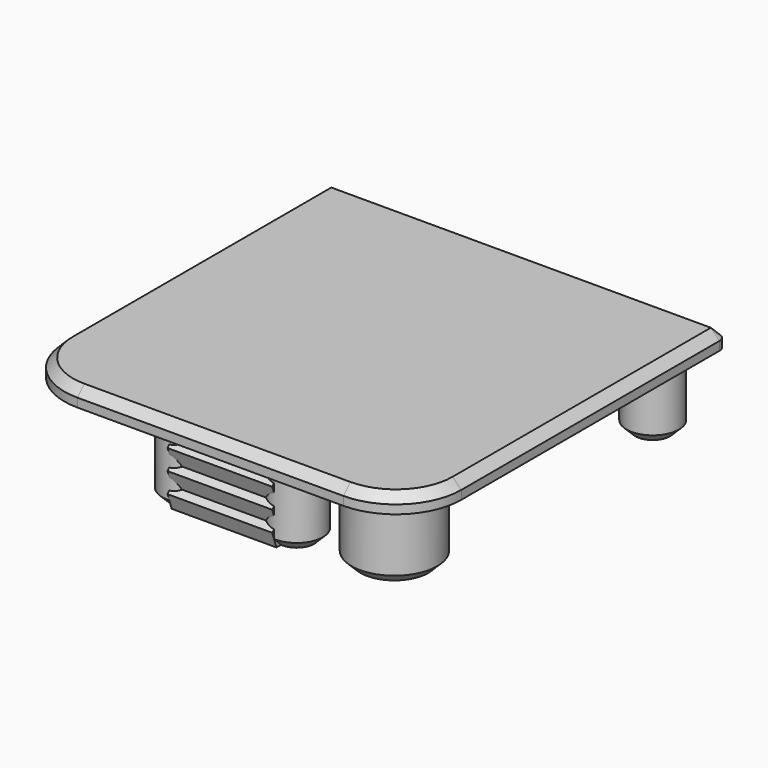
from build123d import *

# Parameters (mm, degrees)
PAD001_DEPTH    = 2
SKETCH002_R     = 3
SKETCH002_R_2   = 4.9
PAD002_DEPTH    = 8
CHAMFER_SIZE    = 1
CHAMFER001_SIZE = 1
PAD003_DEPTH    = 9
PAD004_DEPTH    = 6
PAD005_DEPTH    = 8.5


with BuildPart() as part:
    # Sketch001 → Pad001 (new body)
    with BuildSketch(Plane.XY):
        with BuildLine():
            Line((-21.73, 22.75), (21.73, 22.75))
            ThreePointArc((22.75, 21.73), (22.451249, 22.451249), (21.73, 22.75))
            Line((22.75, 21.73), (22.75, -15.25))
            ThreePointArc((15.25, -22.75), (20.553301, -20.553301), (22.75, -15.25))
            Line((15.25, -22.75), (-15.25, -22.75))
            ThreePointArc((-22.75, -15.25), (-20.553301, -20.553301), (-15.25, -22.75))
            Line((-22.75, -15.25), (-22.75, 21.73))
            ThreePointArc((-21.73, 22.75), (-22.451249, 22.451249), (-22.75, 21.73))
        make_face()
    extrude(amount=PAD001_DEPTH)

    # Sketch002 → Pad002 (join)
    with BuildSketch(Plane.XY):
        with Locations((-18.05, 18.05)):
            Circle(SKETCH002_R)
        with Locations((18.05, 18.05)):
            Circle(SKETCH002_R)
        with Locations((6.2, -18.15)):
            Circle(SKETCH002_R)
        with Locations((-6.2, -18.15)):
            Circle(SKETCH002_R)
        with Locations((15.8, -16.15)):
            Circle(SKETCH002_R_2)
    extrude(amount=-PAD002_DEPTH)

    # Chamfer
    chamfer_edges = [part.edges().sort_by_distance(p)[0] for p in [
        (15.05, 18.05, -8),
        (-21.05, 18.05, -8),
        (-9.2, -18.15, -8),
        (3.2, -18.15, -8),
        (10.9, -16.15, -8),
    ]]
    chamfer(chamfer_edges, length=CHAMFER_SIZE)

    # Chamfer001
    chamfer001_edges = [part.edges().sort_by_distance(p)[0] for p in [
        (0, -22.75, 2),
    ]]
    chamfer(chamfer001_edges, length=CHAMFER001_SIZE)

    # Sketch003 → Pad003 (join, symmetric)
    with BuildSketch(Plane.XZ.offset(-3)):
        with BuildLine():
            ThreePointArc((-20.8, -0.965685), (-20.677375, -0.349207), (-21.2, 0))
            Line((-21.2, 0), (-15.2, 0))
            ThreePointArc((-15.2, 0), (-16.381381, -0.386204), (-17.106508, -1.395661))
            Line((-19.2, -8), (-17.106508, -1.395661))
            Line((-20.8, -8), (-19.2, -8))
            Line((-21.4, -6.255228), (-20.8, -8))
            Line((-20.8, -5.655228), (-21.4, -6.255228))
            Line((-21.4, -3.910457), (-20.8, -5.655228))
            Line((-20.8, -3.310457), (-21.4, -3.910457))
            Line((-21.4, -1.565685), (-20.8, -3.310457))
            Line((-20.8, -0.965685), (-21.4, -1.565685))
        make_face()
        with BuildLine():
            Line((3, 0), (9, 0))
            ThreePointArc((9, 0), (8.477375, -0.349207), (8.6, -0.965685))
            Line((8.6, -0.965685), (9.2, -1.565685))
            Line((9.2, -1.565685), (8.6, -3.310457))
            Line((8.6, -3.310457), (9.2, -3.910457))
            Line((9.2, -3.910457), (8.6, -5.655228))
            Line((8.6, -5.655228), (9.2, -6.255228))
            Line((9.2, -6.255228), (8.6, -8))
            Line((8.6, -8), (7, -8))
            Line((7, -8), (4.906508, -1.395661))
            ThreePointArc((4.906508, -1.395661), (4.181381, -0.386204), (3, 0))
        make_face()
    extrude(amount=PAD003_DEPTH, both=True)

    # Sketch004 → Pad004 (join, symmetric)
    with BuildSketch(Plane.YZ):
        with BuildLine():
            ThreePointArc((-20.8, -1.023773), (-20.665406, -0.381157), (-21.2, 0))
            Line((-21.2, 0), (-15.2, 0))
            ThreePointArc((-15.2, 0), (-16.381381, -0.386204), (-17.106508, -1.395661))
            Line((-19.2, -8), (-17.106508, -1.395661))
            Line((-20.8, -8), (-19.2, -8))
            Line((-21.4, -6.274591), (-20.8, -8))
            Line((-20.8, -5.674591), (-21.4, -6.274591))
            Line((-21.4, -3.949182), (-20.8, -5.674591))
            Line((-20.8, -3.349182), (-21.4, -3.949182))
            Line((-21.4, -1.623773), (-20.8, -3.349182))
            Line((-20.8, -1.023773), (-21.4, -1.623773))
        make_face()
    extrude(amount=PAD004_DEPTH, both=True)

    # Sketch005 → Pad005 (join, symmetric)
    with BuildSketch(Plane.YZ.offset(-5)):
        with BuildLine():
            Line((15.2, 0), (21.2, 0))
            ThreePointArc((21.2, 0), (20.665406, -0.381157), (20.8, -1.023773))
            Line((20.8, -1.023773), (21.4, -1.623773))
            Line((21.4, -1.623773), (20.8, -3.349182))
            Line((20.8, -3.349182), (21.4, -3.949182))
            Line((21.4, -3.949182), (20.8, -5.674591))
            Line((20.8, -5.674591), (21.4, -6.274591))
            Line((21.4, -6.274591), (20.8, -8))
            Line((20.8, -8), (19.2, -8))
            Line((19.2, -8), (17.106508, -1.395661))
            ThreePointArc((17.106508, -1.395661), (16.381381, -0.386204), (15.2, 0))
        make_face()
    extrude(amount=PAD005_DEPTH, both=True)


solid = part.part
